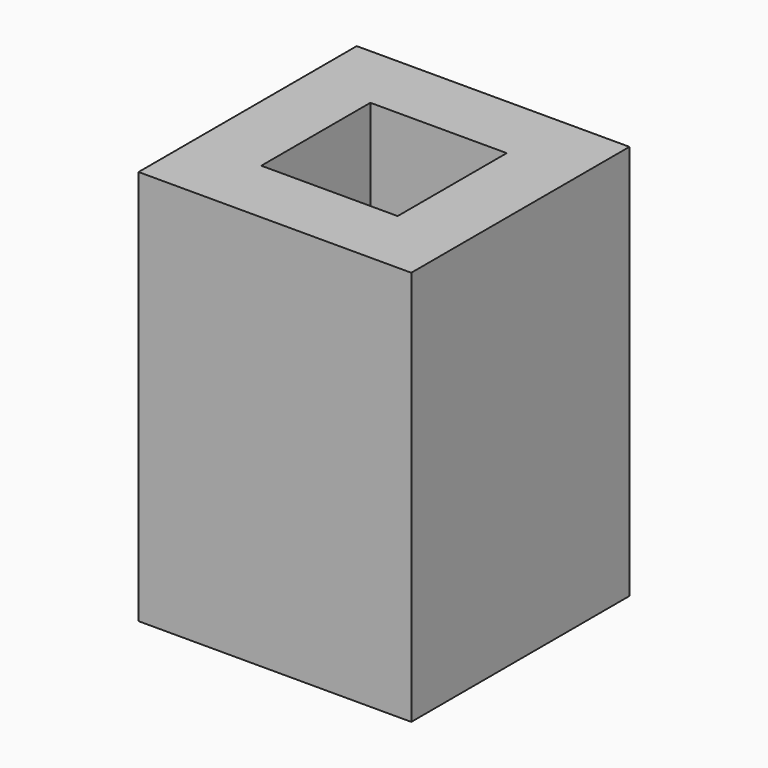
from build123d import *

# Parameters (mm, degrees)
BOX011_W     = 100
BOX011_H     = 100
BOX011_DEPTH = 290
BOX010_W     = 200
BOX010_H     = 200
BOX010_DEPTH = 290


with BuildPart() as cube010:
    # Box011 → Box011 (new body)
    with BuildSketch(Plane(origin=(150, 150, -310), x_dir=(1, 0, 0), z_dir=(0, 0, 1))):
        with Locations((50, 50)):
            Rectangle(BOX011_W, BOX011_H)
    extrude(amount=BOX011_DEPTH)


with BuildPart() as cut005:
    # Box010 → Box010 (new body)
    with BuildSketch(Plane(origin=(100, 100, -310), x_dir=(1, 0, 0), z_dir=(0, 0, 1))):
        with Locations((100, 100)):
            Rectangle(BOX010_W, BOX010_H)
    extrude(amount=BOX010_DEPTH)

    # Cut005: cut Cube010
    add(cube010.part, mode=Mode.SUBTRACT)


solid = cut005.part
